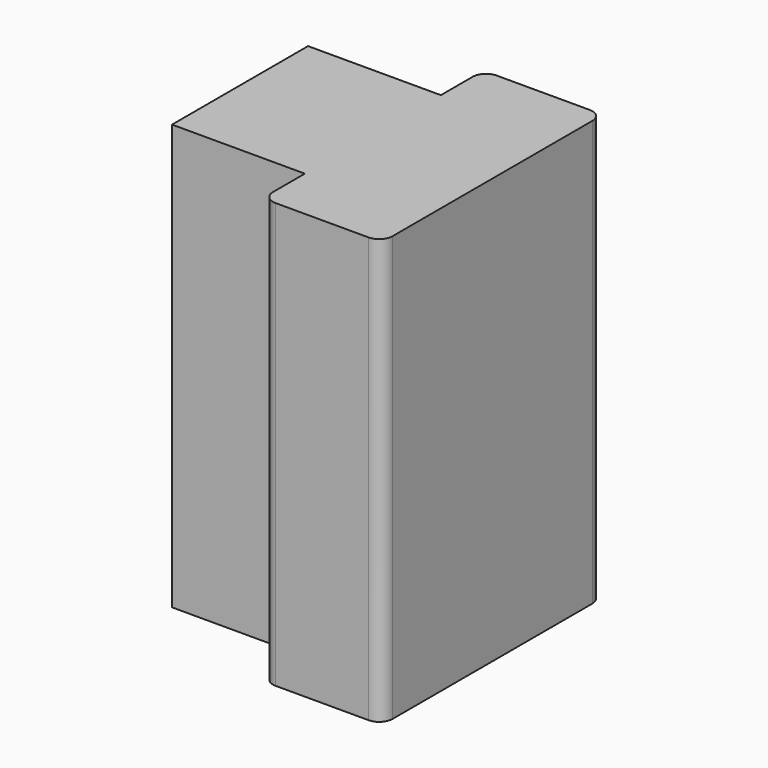
from build123d import *

# Parameters (mm, degrees)
F1_DEPTH = 16


with BuildPart() as f1:
    # F0 (on Top) → F1 (new body)
    with BuildSketch(Plane.XY):
        with BuildLine():
            Line((0, -4.7), (0, 0))
            Line((0, 0), (0, 4.7))
            ThreePointArc((0, 4.7), (-0.146447, 5.053553), (-0.5, 5.2))
            Line((-0.5, 5.2), (-4, 5.2))
            ThreePointArc((-4, 5.2), (-4.353553, 5.053553), (-4.5, 4.7))
            Line((-4.5, 4.7), (-4.5, 3.2))
            Line((-4.5, 3.2), (-9.5, 3.2))
            Line((-9.5, 3.2), (-9.5, 0))
            Line((-9.5, 0), (-9.5, -3.2))
            Line((-9.5, -3.2), (-4.5, -3.2))
            Line((-4.5, -3.2), (-4.5, -4.7))
            ThreePointArc((-4.5, -4.7), (-4.353553, -5.053553), (-4, -5.2))
            Line((-4, -5.2), (-0.5, -5.2))
            ThreePointArc((-0.5, -5.2), (-0.146447, -5.053553), (0, -4.7))
        make_face()
    extrude(amount=F1_DEPTH)


solid = f1.part
